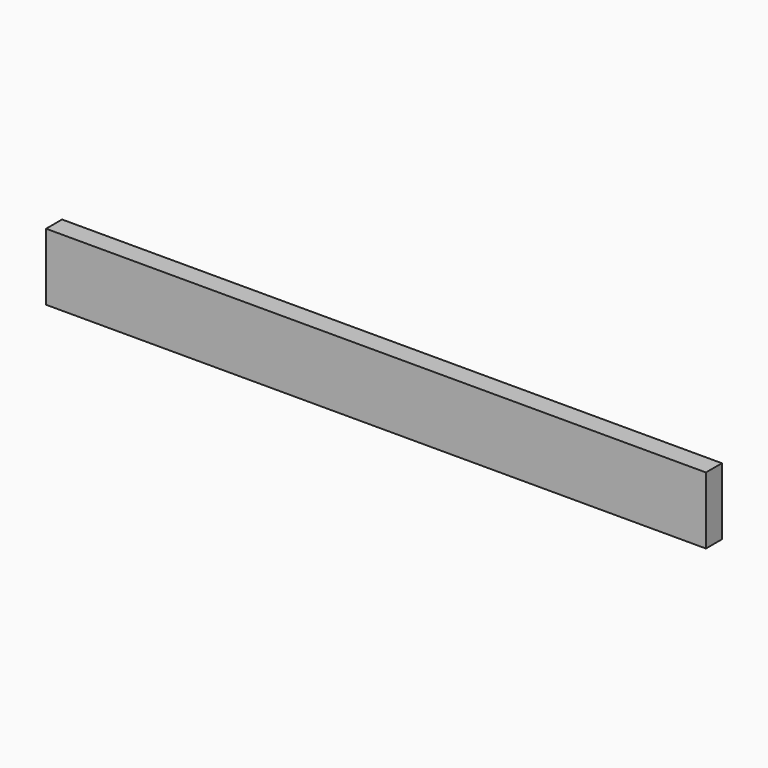
from build123d import *

# Parameters (mm, degrees)
SKETCH_W  = 330
SKETCH_H  = 10
PAD_DEPTH = 33.5


with BuildPart() as part:
    # Sketch → Pad (new body)
    with BuildSketch(Plane.XY):
        with Locations((165, 5)):
            Rectangle(SKETCH_W, SKETCH_H)
    extrude(amount=PAD_DEPTH)


solid = part.part
